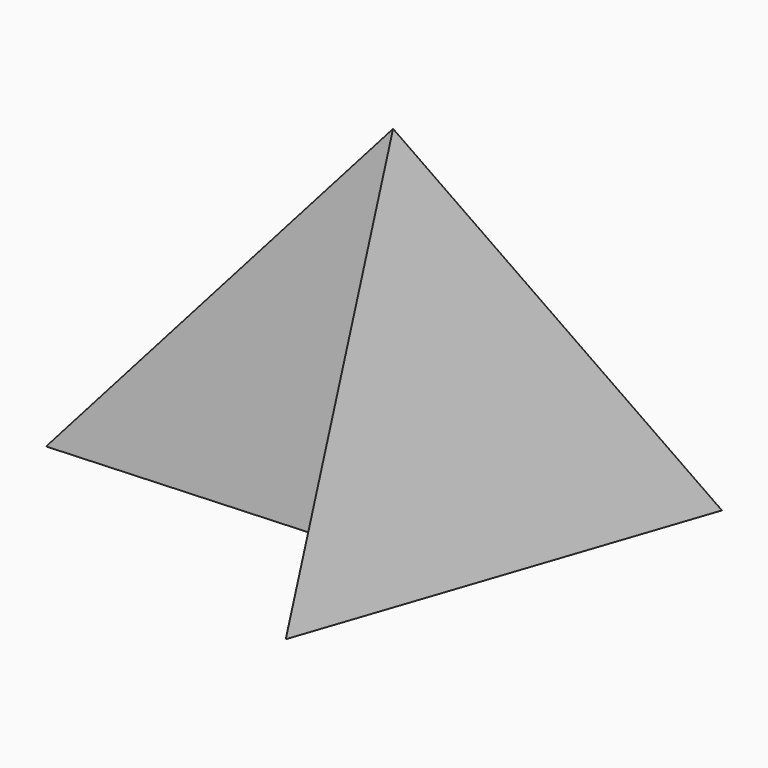
from build123d import *


with BuildPart() as f3:
    # F0 (on Top) → F3 section 0
    with BuildSketch(Plane.XY, mode=Mode.PRIVATE) as f3_s0:
        Polygon((9.822634, -66.04147), (61.854648, 87.356704), (12.256972, 62.000724), (-28.811049, 83.200991), (-41.512534, 34.511965), (-130.311742, -10.885143), (18.025678, -2.269423), align=None)
    loft([Vertex(0, 0, 150), f3_s0.sketch])


solid = f3.part
